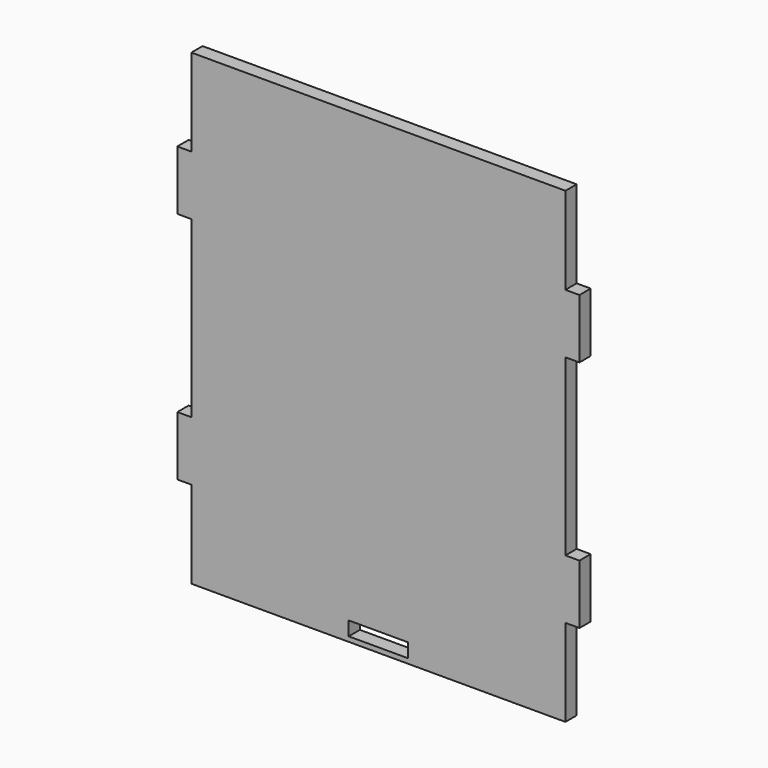
from build123d import *

# Parameters (mm, degrees)
F1_DEPTH = 3
F2_W     = 12.7
F2_H     = 3
F3_DEPTH = 3


with BuildPart() as f1:
    # F0 (on Front) → F1 (new body)
    with BuildSketch(Plane.XZ):
        Polygon((40, 50), (-40, 50), (-40, 31.35), (-43, 31.35), (-43, 18.65), (-40, 18.65), (-40, -18.65), (-43, -18.65), (-43, -31.35), (-40, -31.35), (-40, -50), (40, -50), (40, -31.35), (43, -31.35), (43, -18.65), (40, -18.65), (40, 18.65), (43, 18.65), (43, 31.35), (40, 31.35), align=None)
    extrude(amount=F1_DEPTH)

    # F2 (on face) → F3 (cut, through all)
    with BuildSketch(Plane.XZ.offset(3)):
        with Locations((0, -47.46)):
            Rectangle(F2_W, F2_H)
    extrude(amount=-F3_DEPTH, mode=Mode.SUBTRACT)


solid = f1.part
